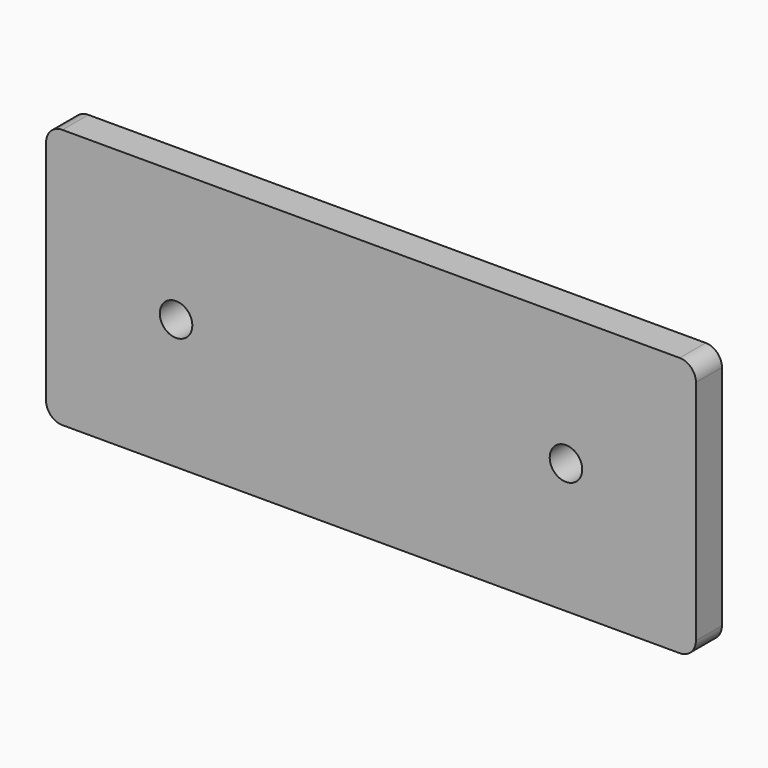
from build123d import *

# Parameters (mm, degrees)
F0_W     = 254
F0_H     = 101.6
F1_DEPTH = 12.7
F3_D     = 12.7
F4_R     = 6.35


with BuildPart() as f1:
    # F0 (on Front) → F1 (new body)
    with BuildSketch(Plane.XZ):
        with Locations((34.448745, 23.51646)):
            Rectangle(F0_W, F0_H)
    extrude(amount=F1_DEPTH)

    # F3 (through all)
    with Locations(Plane.XZ.offset(12.7)):
        with Locations((-41.751255, 23.51646), (110.648745, 23.51646)):
            Hole(F3_D / 2)

    # F4
    f4_edges = [f1.edges().sort_by_distance(p)[0] for p in [
        (-92.551255, -6.35, 74.31646),
        (-92.551255, -6.35, -27.28354),
        (161.448745, -6.35, 74.31646),
        (161.448745, -6.35, -27.28354),
    ]]
    fillet(f4_edges, radius=F4_R)


solid = f1.part
